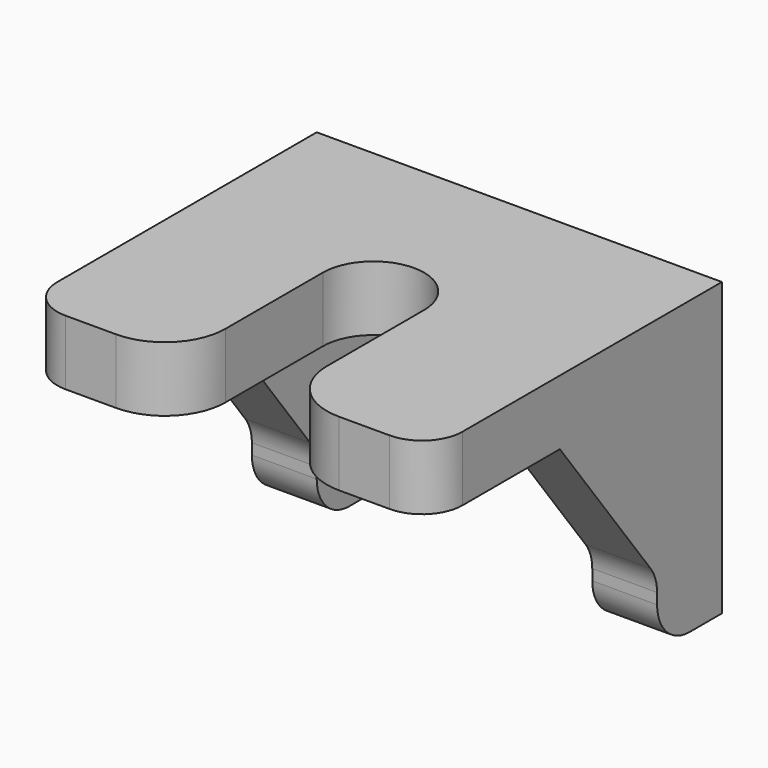
from build123d import *

# Parameters (mm, degrees)
PAD002_DEPTH            = 1.6
PAD003_DEPTH            = 1.6
LINEARPATTERN_COUNT     = 2
LINEARPATTERN_PITCH     = 8.4
FILLET_R                = 1
FILLET001_R             = 1
FILLET002_R             = 1
FILLET003_R             = 1.5
BODY001_PLACEMENT_ANGLE = 90


with BuildPart() as part:
    # Sketch004 → Pad002 (new body)
    with BuildSketch(Plane.XY):
        with BuildLine():
            Line((-4.5, 5), (4.5, 5))
            Line((4.5, 5), (4.5, 1.25))
            Line((0, 1.25), (4.5, 1.25))
            ThreePointArc((0, 1.25), (-1.25, 0), (0, -1.25))
            Line((4.5, -1.25), (0, -1.25))
            Line((4.5, -1.25), (4.5, -5))
            Line((4.5, -5), (-4.5, -5))
            Line((-4.5, -5), (-4.5, 5))
        make_face()
    extrude(amount=PAD002_DEPTH)

    # Sketch005 (on DatumPlane) → Pad003 (join)
    with BuildSketch(Plane.XZ.offset(5)):
        Polygon((-4.5, 0), (-4.5, -5.6), (-2.5, -5.6), (-2.5, -4), (0.5, 0), align=None)
    pad003 = extrude(amount=-PAD003_DEPTH)

    # LinearPattern: Pad003 ×2
    with Locations(*[(0, i * LINEARPATTERN_PITCH, 0) for i in range(1, LINEARPATTERN_COUNT)]):
        add(pad003)

    # Fillet
    fillet_edges = [part.edges().sort_by_distance(p)[0] for p in [
        (-2.5, -4.2, -5.6),
        (-2.5, 4.2, -5.6),
    ]]
    fillet(fillet_edges, radius=FILLET_R)

    # Fillet001
    fillet001_edges = [part.edges().sort_by_distance(p)[0] for p in [
        (-2.5, -4.2, -4),
        (-2.5, 4.2, -4),
    ]]
    fillet(fillet001_edges, radius=FILLET001_R)

    # Fillet002
    fillet002_edges = [part.edges().sort_by_distance(p)[0] for p in [
        (4.5, -5, 0.8),
        (4.5, 5, 0.8),
    ]]
    fillet(fillet002_edges, radius=FILLET002_R)

    # Fillet003
    fillet003_edges = [part.edges().sort_by_distance(p)[0] for p in [
        (4.5, -1.25, 0.8),
        (4.5, 1.25, 0.8),
    ]]
    fillet(fillet003_edges, radius=FILLET003_R)


with BuildPart() as part_1:
    # Body001 placement: moved
    add(part.part.moved(Location((22.4, -32.5, 10.4))).rotate(Axis((22.4, -32.5, 10.4), (0, 0, -1)), BODY001_PLACEMENT_ANGLE))


solid = part_1.part
